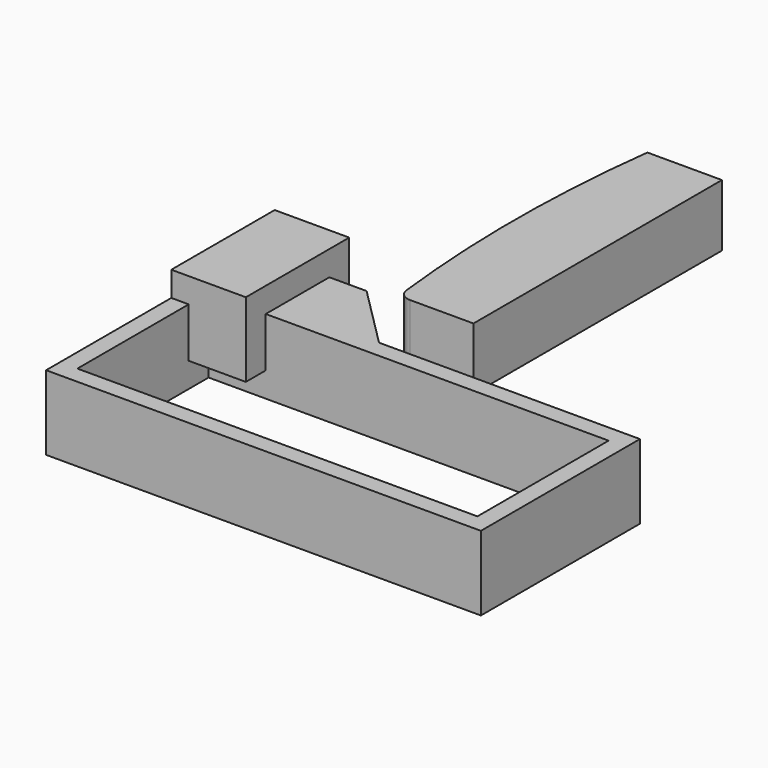
from build123d import *

# Parameters (mm, degrees)
F0_W     = 32.2000000998
F0_H     = 13.2000000998
F1_DEPTH = 6
F2_DEPTH = 2
F3_W     = 2
F3_H     = 4
F4_DEPTH = 6
F6_DEPTH = 4
F8_DEPTH = 2.5
F9_R     = 1


with BuildPart() as f1:
    # F0 (on Top) → F1 (new body)
    with BuildSketch(Plane.XY):
        Polygon((35, 0), (14, 0), (0, 0), (0, -16), (35, -16), align=None)
        with Locations((17.5, -8)):
            Rectangle(F0_W, F0_H, mode=Mode.SUBTRACT)
    extrude(amount=-F1_DEPTH)

    # F0 (on Top) → F2 (join)
    with BuildSketch(Plane.XY):
        Polygon((0, 0), (14, 0), (9, 5), (0, 5), align=None)
    extrude(amount=-F2_DEPTH)


with BuildPart() as f4:
    # F3 (on face) → F4 (new body)
    with BuildSketch(Plane(origin=(0, 0, 0), x_dir=(0, -1, 0), z_dir=(-1, 0, 0))):
        Polygon((-5, 0), (0, 0), (1.3999999501, 0), (3.3999999501, 0), (3.3999999501, 2), (0, 2), (-7, 2), (-7, -6), (0, -6), (0, -2), (-5, -2), align=None)
        with Locations((2.3999999501, -2)):
            Rectangle(F3_W, F3_H)
    extrude(amount=-F4_DEPTH)

    # F5 (on face) → F6 (join, through all)
    with BuildSketch(Plane(origin=(0, 0, -6), x_dir=(1, 0, 0), z_dir=(0, 0, -1))):
        Polygon((12, 0), (6, 0), (6, -4), (12, -1), align=None)
    extrude(amount=-F6_DEPTH)


with BuildPart() as f8:
    # F7 (on face) → F8 (new body, symmetric)
    with BuildSketch(Plane.XY):
        with BuildLine():
            ThreePointArc((14, 27), (13.2156741649, 14.5), (14, 2))
            Line((14, 2), (20, 2))
            Line((20, 2), (20, 27))
            Line((20, 27), (14, 27))
        make_face()
    extrude(amount=F8_DEPTH, both=True)

    # F9
    f9_edges = [f8.edges().sort_by_distance(p)[0] for p in [
        (14, 2, 0),
    ]]
    fillet(f9_edges, radius=F9_R)


solid = Compound([f1.part, f4.part, f8.part])
